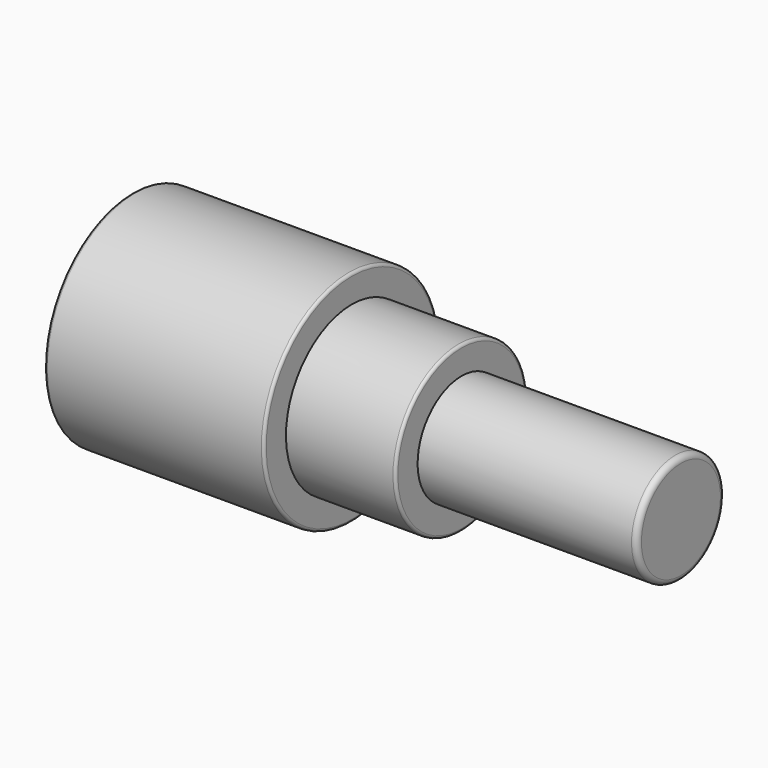
from build123d import *

# Parameters (mm, degrees)
F2_R = 1.27
F3_R = 0.635


with BuildPart() as f1:
    # F0 (on Front) → F1 (revolve)
    with BuildSketch(Plane.XZ):
        Polygon((-127, 0), (0, 0), (0, 12.7), (-50.8, 12.7), (-50.8, 19.05), (-76.2, 19.05), (-76.2, 25.4), (-127, 25.4), align=None)
    revolve(axis=Axis((-63.5, 0, 0), (-1, 0, 0)))

    # F2
    f2_edges = [f1.edges().sort_by_distance(p)[0] for p in [
        (0, 0, -12.7),
    ]]
    fillet(f2_edges, radius=F2_R)

    # F3
    f3_edges = [f1.edges().sort_by_distance(p)[0] for p in [
        (-50.8, 0, -19.05),
        (-76.2, 0, -25.4),
        (-127, 0, -25.4),
    ]]
    fillet(f3_edges, radius=F3_R)


solid = f1.part
